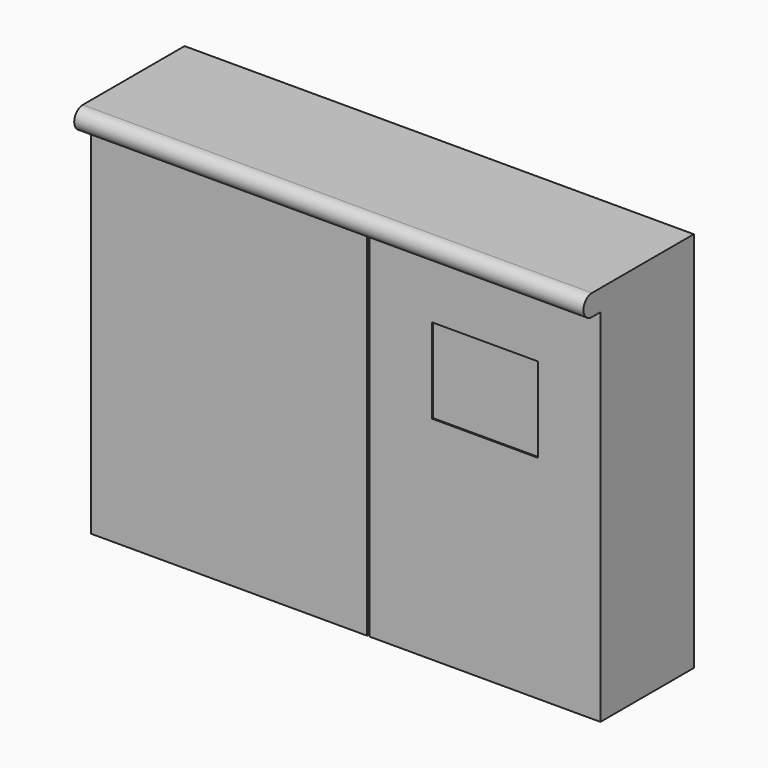
from build123d import *

# Parameters (mm, degrees)
F0_W     = 1219.2
F0_H     = 279.4
F1_DEPTH = 914.4
F3_DEPTH = 1219.2
F4_W     = 6.35
F4_H     = 863.6
F4_W_2   = 254
F4_H_2   = 203.2
F5_DEPTH = 3.175


with BuildPart() as f1:
    # F0 (on Top) → F1 (new body)
    with BuildSketch(Plane.XY):
        with Locations((609.6, -139.7)):
            Rectangle(F0_W, F0_H)
    extrude(amount=F1_DEPTH)

    # F2 (on face) → F3 (join, through all)
    with BuildSketch(Plane(origin=(0, 0, 0), x_dir=(0, -1, 0), z_dir=(-1, 0, 0))):
        with BuildLine():
            Line((304.8, 914.4), (279.4, 914.4))
            Line((279.4, 914.4), (279.4, 863.6))
            Line((279.4, 863.6), (304.8, 863.6))
            ThreePointArc((304.8, 863.6), (330.2, 889), (304.8, 914.4))
        make_face()
    extrude(amount=-F3_DEPTH)

    # F4 (on face) → F5 (cut)
    with BuildSketch(Plane.XZ.offset(279.4)):
        with Locations((663.575, 431.8)):
            Rectangle(F4_W, F4_H)
        with Locations((942.975, 609.6)):
            Rectangle(F4_W_2, F4_H_2)
    extrude(amount=-F5_DEPTH, mode=Mode.SUBTRACT)


solid = f1.part
